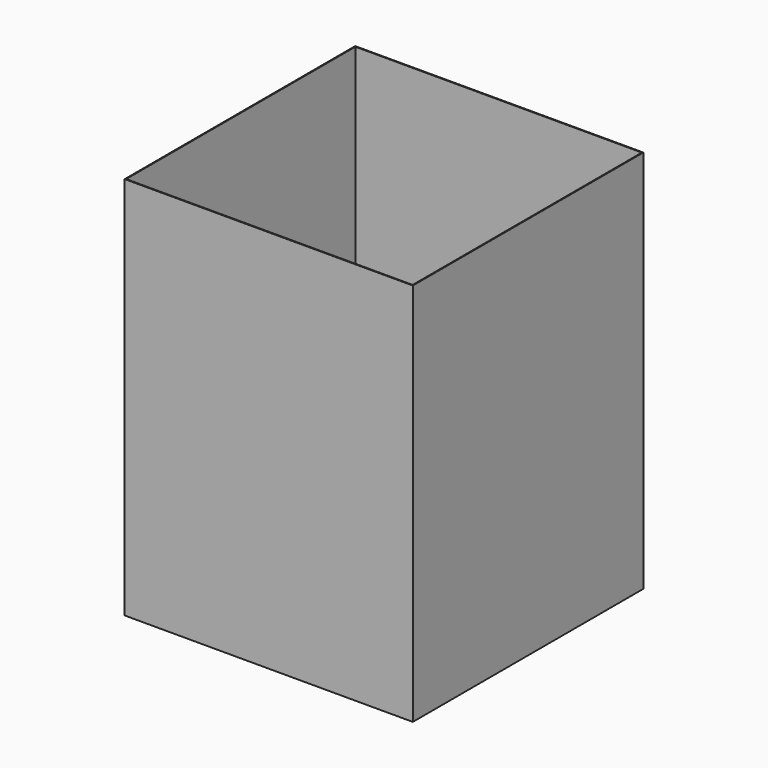
from build123d import *

# Parameters (mm, degrees)
F0_W     = 914.4
F0_H     = 1219.2
F1_DEPTH = 457.2
F2_T     = -2.54


with BuildPart() as f1:
    # F0 (on Front) → F1 (new body, symmetric)
    with BuildSketch(Plane.XZ):
        Rectangle(F0_W, F0_H)
    extrude(amount=F1_DEPTH, both=True)

    # F2
    f2_openings = [f1.faces().sort_by_distance(p)[0] for p in [
        (0, 0, 609.6),
    ]]
    offset(amount=F2_T, openings=f2_openings)


solid = f1.part
